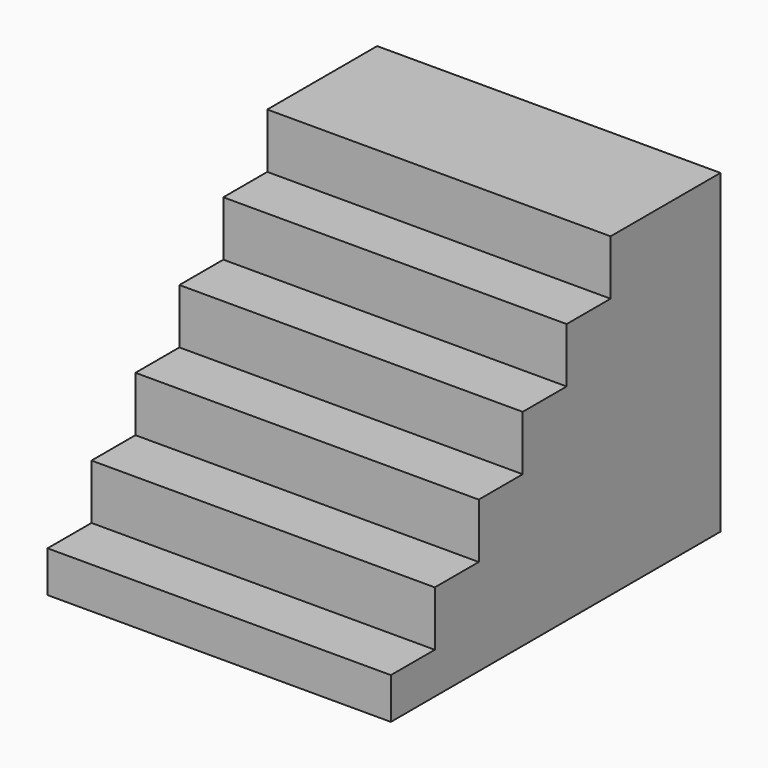
from build123d import *

# Parameters (mm, degrees)
F0_W     = 25
F0_H     = 23
F1_DEPTH = 30
F3_DEPTH = 25.001


with BuildPart() as f1:
    # F0 (on Front) → F1 (new body)
    with BuildSketch(Plane.XZ):
        with Locations((12.5, 11.5)):
            Rectangle(F0_W, F0_H)
    extrude(amount=-F1_DEPTH)

    # F2 (on face) → F3 (cut, through all)
    with BuildSketch(Plane.YZ.offset(25)):
        Polygon((20, 23), (0, 23), (0, 3), (4, 3), (4, 7), (8, 7), (8, 11), (12, 11), (12, 15), (16, 15), (16, 19), (20, 19), align=None)
    extrude(amount=-F3_DEPTH, mode=Mode.SUBTRACT)


solid = f1.part
